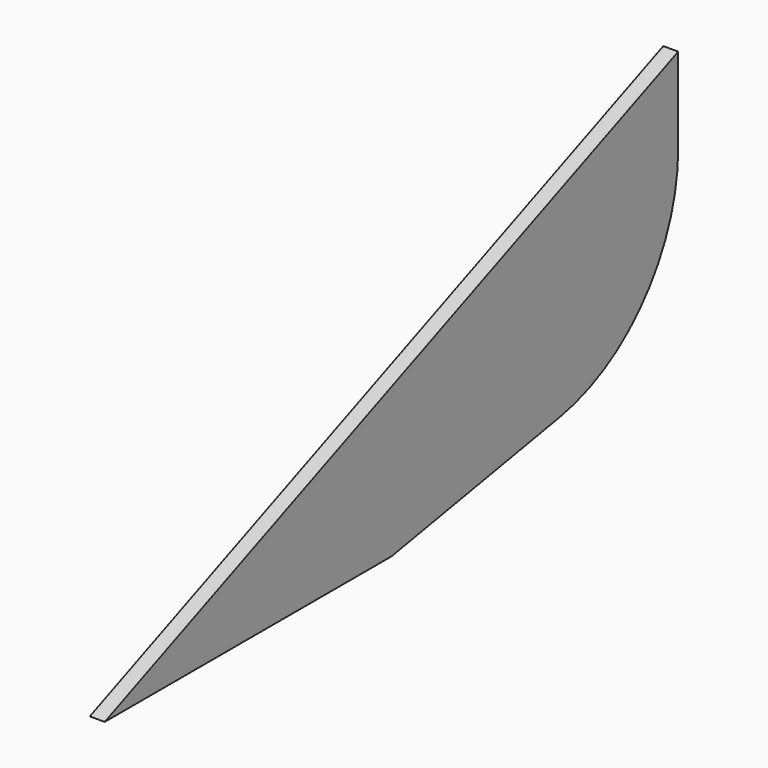
from build123d import *

# Parameters (mm, degrees)
F1_DEPTH = 3.175


with BuildPart() as f1:
    # F0 (on Right) → F1 (new body)
    with BuildSketch(Plane.YZ):
        with BuildLine():
            Line((152.4, 63.5), (0, 0))
            Line((0, 0), (76.2, 0))
            Line((76.2, 0), (120.915996, 7.884636))
            ThreePointArc((120.915996, 7.884636), (143.486293, 20.915604), (152.4, 45.405812))
            Line((152.4, 45.405812), (152.4, 63.5))
        make_face()
    extrude(amount=F1_DEPTH)


solid = f1.part
